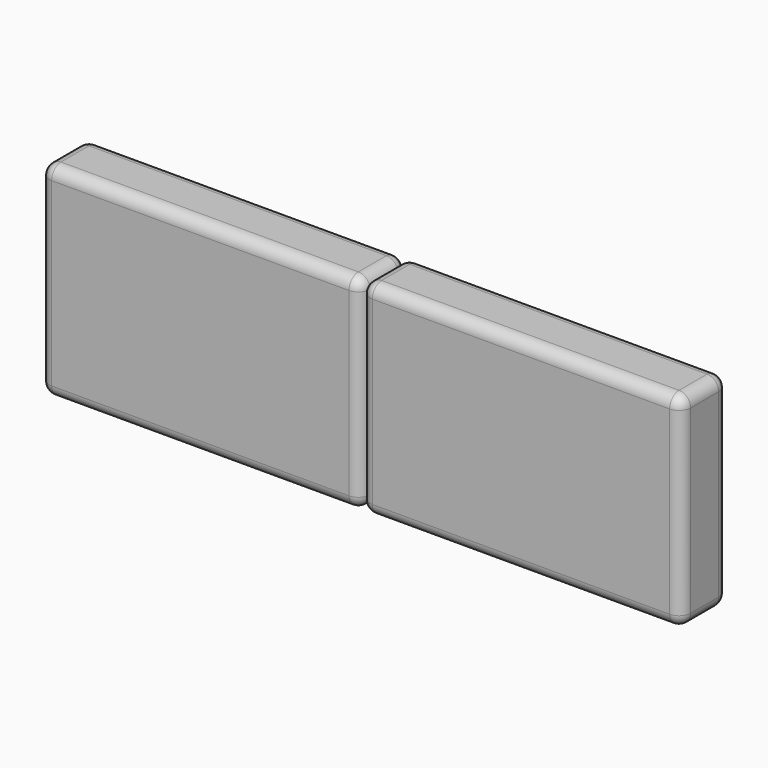
from build123d import *

# Parameters (mm, degrees)
SKETCH005_W      = 550
SKETCH005_H      = 350
EXTRUDE006_DEPTH = 100
FILLET001_R      = 20
ARRAY003_X_COUNT = 2
ARRAY003_X_PITCH = 550


with BuildPart() as part:
    # Sketch005 → Extrude006 (new body)
    with BuildSketch(Plane.XZ):
        with Locations((275, 175)):
            Rectangle(SKETCH005_W, SKETCH005_H)
    extrude(amount=EXTRUDE006_DEPTH)

    # Fillet001
    fillet001_edges = [part.edges().sort_by_distance(p)[0] for p in [
        (0, -50, 0),
        (550, -50, 0),
        (275, 0, 0),
        (275, -100, 0),
        (550, -50, 350),
        (550, 0, 175),
        (550, -100, 175),
        (0, -50, 350),
        (275, 0, 350),
        (275, -100, 350),
        (0, 0, 175),
        (0, -100, 175),
    ]]
    fillet(fillet001_edges, radius=FILLET001_R)

    # Array003 X: part ×2


with BuildPart() as part_1:
    add(part.part)
    with Locations(*[(i * ARRAY003_X_PITCH, 0, 0) for i in range(1, ARRAY003_X_COUNT)]):
        add(part.part)


with BuildPart() as part_2:
    # Array003 placement: moved
    add(part_1.part.moved(Location((50, 750, 400))))


solid = part_2.part
